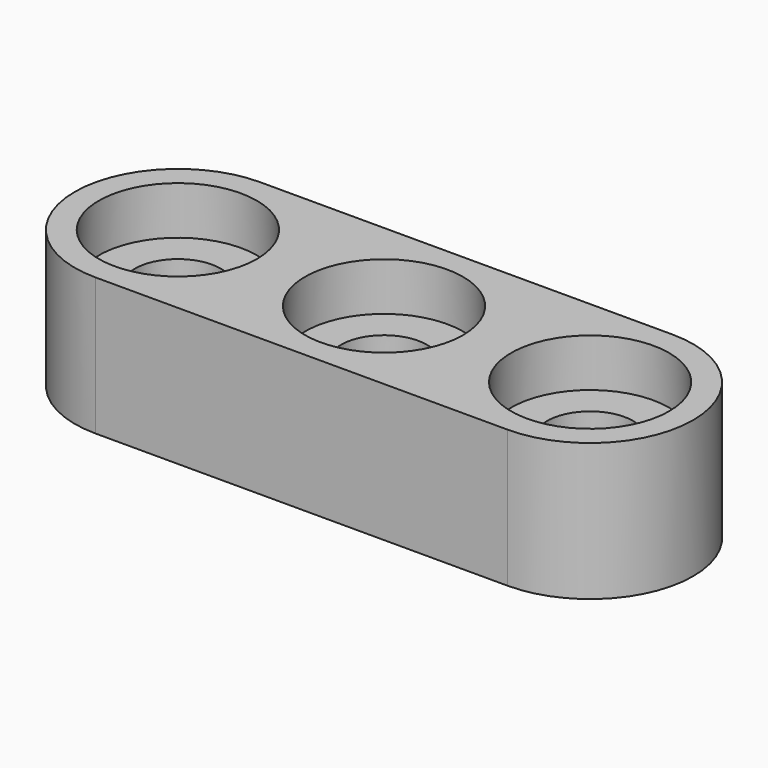
from build123d import *

# Parameters (mm, degrees)
PAD_DEPTH       = 10
SKETCH001_R     = 3.125
POCKET_DEPTH    = 10.001
SKETCH003_R     = 5.75
POCKET001_DEPTH = 3.5
POCKET002_DEPTH = 5


with BuildPart() as part:
    # Sketch → Pad (new body)
    with BuildSketch(Plane.XY):
        with BuildLine():
            ThreePointArc((-30, 7.5), (-37.5, 0), (-30, -7.5))
            Line((-30, -7.5), (0, -7.5))
            ThreePointArc((0, -7.5), (7.5, 0), (0, 7.5))
            Line((-30, 7.5), (0, 7.5))
        make_face()
    extrude(amount=PAD_DEPTH)

    # Sketch001 → Pocket (cut, through all)
    with BuildSketch(Plane.XY):
        with Locations((-15, 0)):
            Circle(SKETCH001_R)
        Circle(SKETCH001_R)
        with Locations((-30, 0)):
            Circle(SKETCH001_R)
    extrude(amount=POCKET_DEPTH, mode=Mode.SUBTRACT)

    # Sketch003 → Pocket001 (cut)
    with BuildSketch(Plane.XY.offset(10)):
        with Locations((-15, 0)):
            Circle(SKETCH003_R)
        with Locations((-30, 0)):
            Circle(SKETCH003_R)
        Circle(SKETCH003_R)
    extrude(amount=-POCKET001_DEPTH, mode=Mode.SUBTRACT)

    # Sketch004 → Pocket002 (cut)
    with BuildSketch(Plane.XY):
        Polygon((4.979646, -2.875), (4.979646, 2.875), (0, 5.75), (-4.979646, 2.875), (-4.979646, -2.875), (0, -5.75), align=None)
        Polygon((-25.020354, -2.875), (-25.020354, 2.875), (-30, 5.75), (-34.979646, 2.875), (-34.979646, -2.875), (-30, -5.75), align=None)
        Polygon((-10.020354, -2.875), (-10.020354, 2.875), (-15, 5.75), (-19.979646, 2.875), (-19.979646, -2.875), (-15, -5.75), align=None)
    extrude(amount=POCKET002_DEPTH, mode=Mode.SUBTRACT)


solid = part.part
